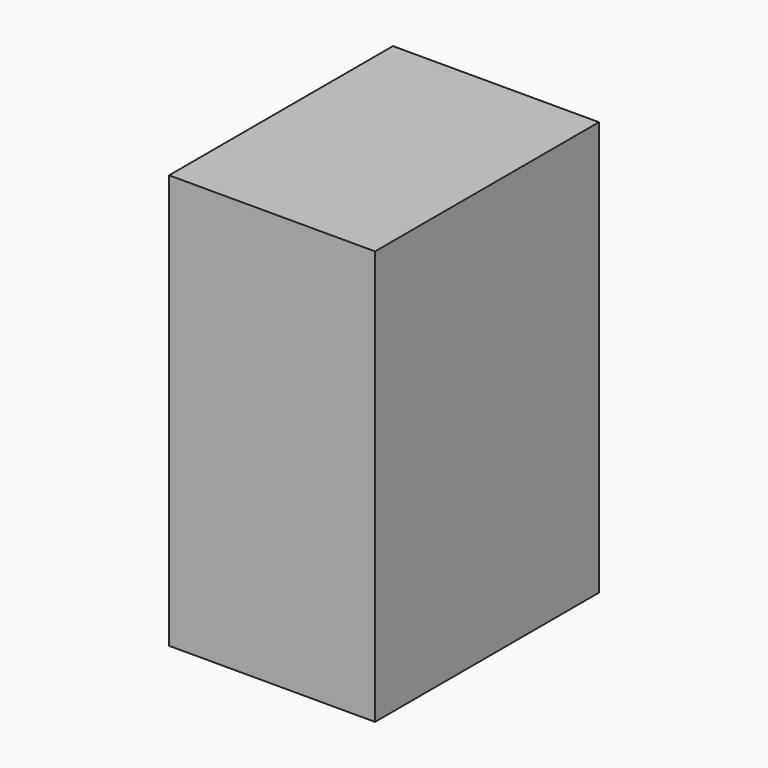
from build123d import *

# Parameters (mm, degrees)
F1_W     = 69.3271495402
F1_H     = 94.1844433546
F2_DEPTH = 139.4197810441


with BuildPart() as f2:
    # F1 (on face) → F2 (new body)
    with BuildSketch(Plane.XY):
        with Locations((7.987594232, -4.0498003364)):
            Rectangle(F1_W, F1_H)
    extrude(amount=F2_DEPTH)


solid = f2.part
